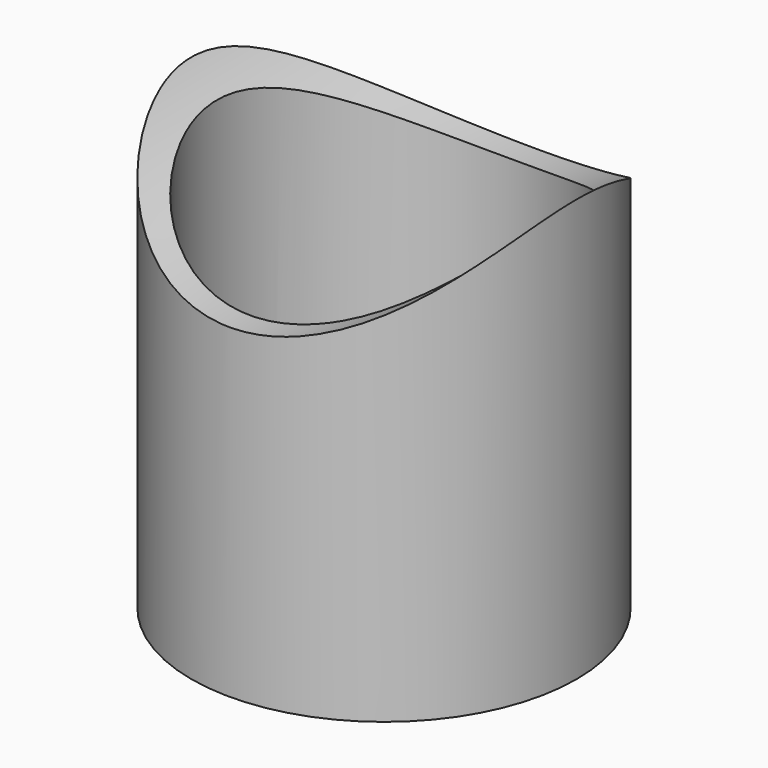
from build123d import *

# Parameters (mm, degrees)
CYLINDER_R        = 22.5
CYLINDER_DEPTH    = 50
CYLINDER001_R     = 19.5
CYLINDER001_DEPTH = 60
CYLINDER002_R     = 28
CYLINDER002_DEPTH = 54
CYLINDER003_R     = 7
CYLINDER003_DEPTH = 10
CYLINDER004_R     = 19.5
CYLINDER004_DEPTH = 3


with BuildPart() as part:
    # Cylinder → Cylinder (join)
    with BuildSketch(Plane.XY):
        Circle(CYLINDER_R)
    extrude(amount=CYLINDER_DEPTH)

    # Cylinder001 → Cylinder001 (cut)
    with BuildSketch(Plane.XY.offset(-5)):
        Circle(CYLINDER001_R)
    extrude(amount=CYLINDER001_DEPTH, mode=Mode.SUBTRACT)

    # Cylinder002 → Cylinder002 (cut)
    with BuildSketch(Plane(origin=(0, 26, 66), x_dir=(1, 0, 0), z_dir=(0, -1, 0))):
        Circle(CYLINDER002_R)
    extrude(amount=CYLINDER002_DEPTH, mode=Mode.SUBTRACT)

    # Cylinder003 → Cylinder003 (cut)
    with BuildSketch(Plane(origin=(-26, 0, 12), x_dir=(0, 1, 0), z_dir=(1, 0, 0))):
        Circle(CYLINDER003_R)
    extrude(amount=CYLINDER003_DEPTH, mode=Mode.SUBTRACT)

    # Cylinder004 → Cylinder004 (join)
    with BuildSketch(Plane.XY):
        Circle(CYLINDER004_R)
    extrude(amount=CYLINDER004_DEPTH)


solid = part.part
